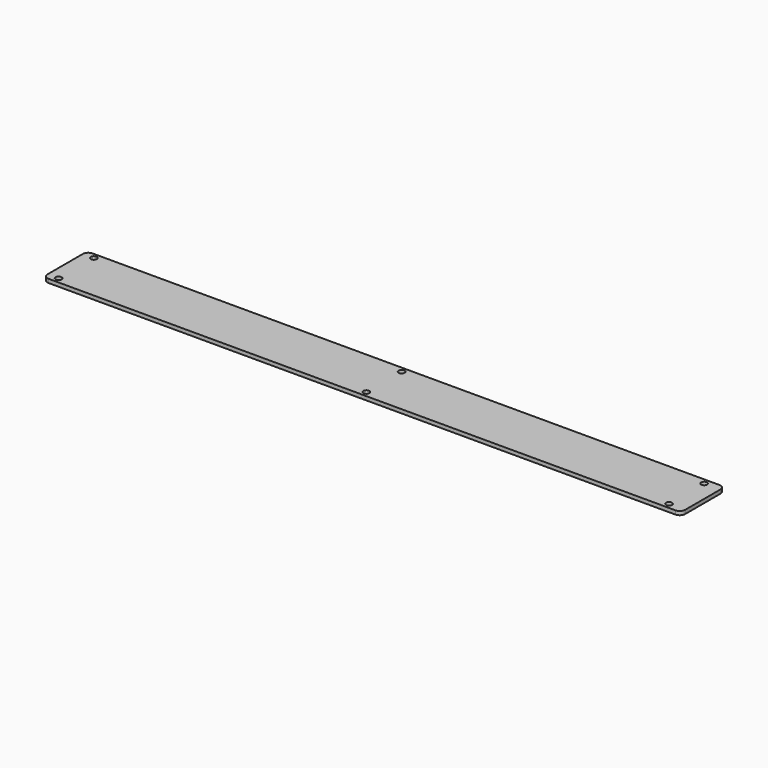
from build123d import *

# Parameters (mm, degrees)
F0_W     = 580
F0_H     = 50
F1_DEPTH = 3.42
F2_R     = 5
F4_D     = 5.5


with BuildPart() as f1:
    # F0 (on Top) → F1 (new body)
    with BuildSketch(Plane.XY):
        Rectangle(F0_W, F0_H)
    extrude(amount=F1_DEPTH)

    # F2
    f2_edges = [f1.edges().sort_by_distance(p)[0] for p in [
        (-290, 25, 1.71),
        (-290, -25, 1.71),
        (290, 25, 1.71),
        (290, -25, 1.71),
    ]]
    fillet(f2_edges, radius=F2_R)

    # F4 (through all)
    with Locations(Plane.XY.offset(3.42)):
        with Locations((-280, -20), (0, -20), (275.3012527625, -20), (275.3012527625, 20), (0, 20), (-280, 20)):
            Hole(F4_D / 2)


solid = f1.part
